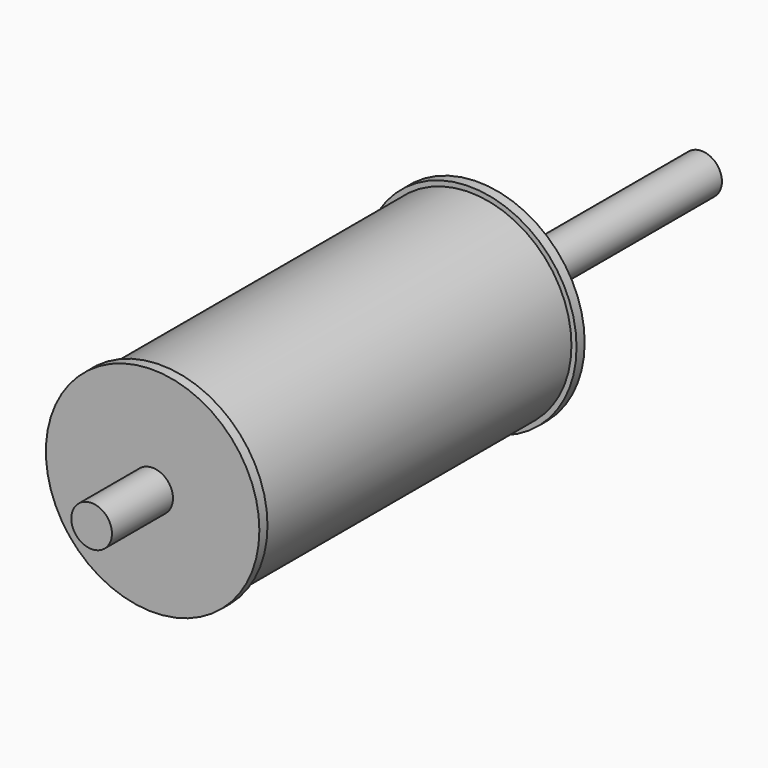
from build123d import *

# Parameters (mm, degrees)
F0_R     = 21
F0_R_2   = 20
F0_R_3   = 4
F1_DEPTH = 40
F2_DEPTH = 38
F4_R     = 4
F5_DEPTH = 150


with BuildPart() as f1:
    # F0 (on Front) → F1 (new body, symmetric)
    with BuildSketch(Plane.XZ):
        Circle(F0_R)
        Circle(F0_R_2, mode=Mode.SUBTRACT)
        Circle(F0_R_2)
        Circle(F0_R_3, mode=Mode.SUBTRACT)
    extrude(amount=F1_DEPTH, both=True)

    # F0 (on Front) → F2 (cut, symmetric)
    with BuildSketch(Plane.XZ):
        Circle(F0_R)
        Circle(F0_R_2, mode=Mode.SUBTRACT)
    extrude(amount=F2_DEPTH, both=True, mode=Mode.SUBTRACT)


with BuildPart() as f5:
    # F4 (on offset) → F5 (new body)
    with BuildSketch(Plane.XZ.offset(55)):
        Circle(F4_R)
    extrude(amount=-F5_DEPTH)


solid = Compound([f1.part, f5.part])
